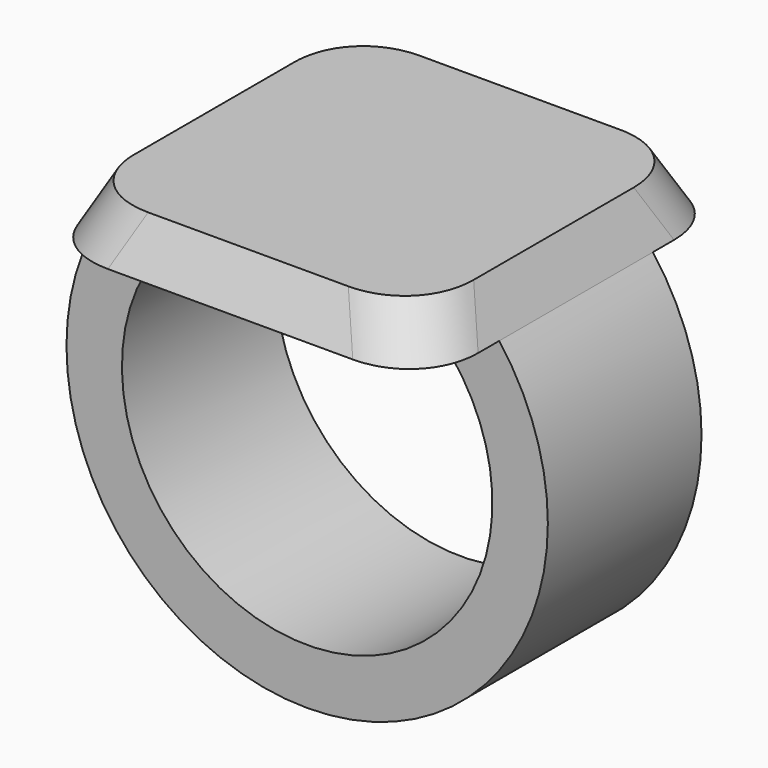
from build123d import *

# Parameters (mm, degrees)
F0_W     = 25.4
F0_H     = 25.4
F1_DEPTH = 3.175
F1_TAPER = 25
F3_W     = 5.08
F3_H     = 12.7
F6_DEPTH = 6.35
F7_R     = 5.08


with BuildPart() as f1:
    # F0 (on Top) → F1 (new body)
    with BuildSketch(Plane.XY):
        Rectangle(F0_W, F0_H)
    extrude(amount=F1_DEPTH, taper=F1_TAPER)

    # F4: sweep along a path in F2
    with BuildLine(Plane.XZ) as f4_path:
        ThreePointArc((-10.16, 0), (0, -23.5582897328), (10.16, 0))
    # F3 (on face) → F4 (sweep)
    with BuildSketch(Plane(origin=(0, 0, 0), x_dir=(1, 0, 0), z_dir=(0, 0, -1))):
        with Locations((10.16, 0)):
            Rectangle(F3_W, F3_H)
    sweep(path=f4_path.line)

    # F5 (on Front) → F6 (join, symmetric)
    with BuildSketch(Plane.XZ):
        with BuildLine():
            Line((-7.62, 0), (-10.16, 0))
            Line((-10.16, 0), (-10.0130578512, -2.535746045))
            ThreePointArc((-10.0130578512, -2.535746045), (-8.9072265211, -1.1822790439), (-7.62, 0))
        make_face()
    extrude(amount=F6_DEPTH, both=True)

    # F7
    f7_edges = [f1.edges().sort_by_distance(p)[0] for p in [
        (-11.959737, 11.959737, 1.5875),
        (11.959737, 11.959737, 1.5875),
        (11.959737, -11.959737, 1.5875),
        (-11.959737, -11.959737, 1.5875),
    ]]
    fillet(f7_edges, radius=F7_R)


solid = f1.part
